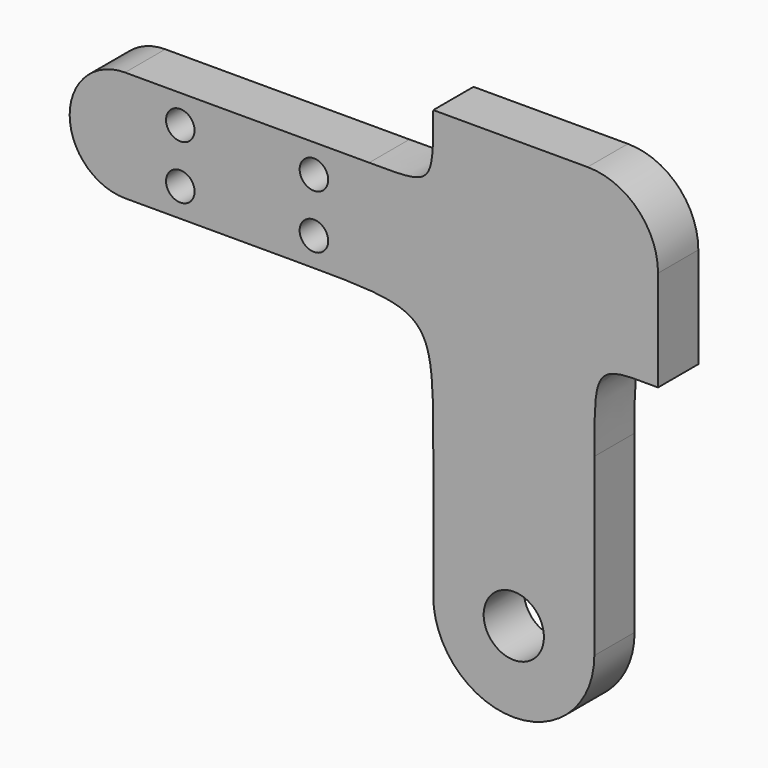
from build123d import *

# Parameters (mm, degrees)
F0_R     = 14.959445
F0_R_2   = 7.087313
F1_DEPTH = 25
F2_R     = 35


with BuildPart() as f1:
    # F0 (on Front) → F1 (new body)
    with BuildSketch(Plane.XZ):
        with BuildLine():
            add(Edge.make_bspline(
                [(-45.392299, 10.688528), (22.505625, 10.688528), (22.505625, 10.688528), (22.505625, -51.399426)],
                knots=[0, 0, 0, 0, 92.005663, 92.005663, 92.005663, 92.005663], degree=3))
            Line((22.505625, -51.399426), (22.505625, -113.487379))
            ThreePointArc((22.505625, -113.487379), (62.505625, -153.487379), (102.505625, -113.487379))
            Line((102.505625, -113.487379), (102.505625, -26.389777))
            add(Edge.make_bspline(
                [(134.16557, 14.047909), (102.505625, 14.534711), (102.505625, 14.216591), (102.505625, -26.389777)],
                knots=[0, 0, 0, 0, 51.357167, 51.357167, 51.357167, 51.357167], degree=3))
            Line((134.16557, 14.047909), (134.16557, 99.047909))
            Line((134.16557, 99.047909), (22.505625, 99.047909))
            add(Edge.make_bspline(
                [(22.505625, 99.047909), (22.505625, 64.501319), (22.505625, 65.688528), (-9.330841, 65.688528)],
                knots=[0, 0, 0, 0, 46.113002, 46.113002, 46.113002, 46.113002], degree=3))
            Line((-9.330841, 65.688528), (-130.590424, 65.688528))
            ThreePointArc((-130.590424, 65.688528), (-158.090424, 38.188528), (-130.590424, 10.688528))
            Line((-130.590424, 10.688528), (-45.392299, 10.688528))
        make_face()
        with Locations((62.505625, -113.487379)):
            Circle(F0_R, mode=Mode.SUBTRACT)
        with Locations((-103.143071, 24.815377)):
            Circle(F0_R_2, mode=Mode.SUBTRACT)
        with Locations((-36.778194, 24.815377)):
            Circle(F0_R_2, mode=Mode.SUBTRACT)
        with Locations((-103.143071, 51.561678)):
            Circle(F0_R_2, mode=Mode.SUBTRACT)
        with Locations((-36.778194, 51.561678)):
            Circle(F0_R_2, mode=Mode.SUBTRACT)
    extrude(amount=F1_DEPTH)

    # F2
    f2_edges = [f1.edges().sort_by_distance(p)[0] for p in [
        (134.16557, -12.5, 99.047909),
    ]]
    fillet(f2_edges, radius=F2_R)


solid = f1.part
